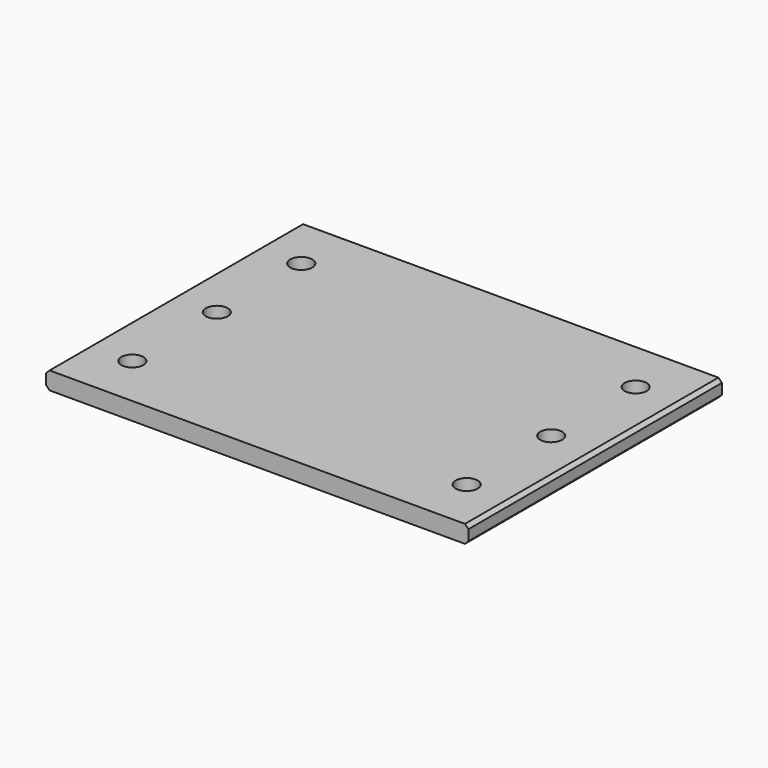
from build123d import *

# Parameters (mm, degrees)
F0_W     = 304.8
F0_H     = 228.6
F0_R     = 7.9375
F1_DEPTH = 12.7
F2_SIZE  = 2.54


with BuildPart() as f1:
    # F0 (on Top) → F1 (new body)
    with BuildSketch(Plane.XY):
        Rectangle(F0_W, F0_H)
        with Locations((-120.65, -76.2)):
            Circle(F0_R, mode=Mode.SUBTRACT)
        with Locations((120.65, -76.2)):
            Circle(F0_R, mode=Mode.SUBTRACT)
        with Locations((-120.65, 0)):
            Circle(F0_R, mode=Mode.SUBTRACT)
        with Locations((-120.65, 76.2)):
            Circle(F0_R, mode=Mode.SUBTRACT)
        with Locations((120.65, 0)):
            Circle(F0_R, mode=Mode.SUBTRACT)
        with Locations((120.65, 76.2)):
            Circle(F0_R, mode=Mode.SUBTRACT)
    extrude(amount=F1_DEPTH)

    # F2
    f2_edges = [f1.edges().sort_by_distance(p)[0] for p in [
        (-152.4, 0, 12.7),
        (-152.4, 0, 0),
        (152.4, 0, 0),
        (152.4, 0, 12.7),
    ]]
    chamfer(f2_edges, length=F2_SIZE)


solid = f1.part
